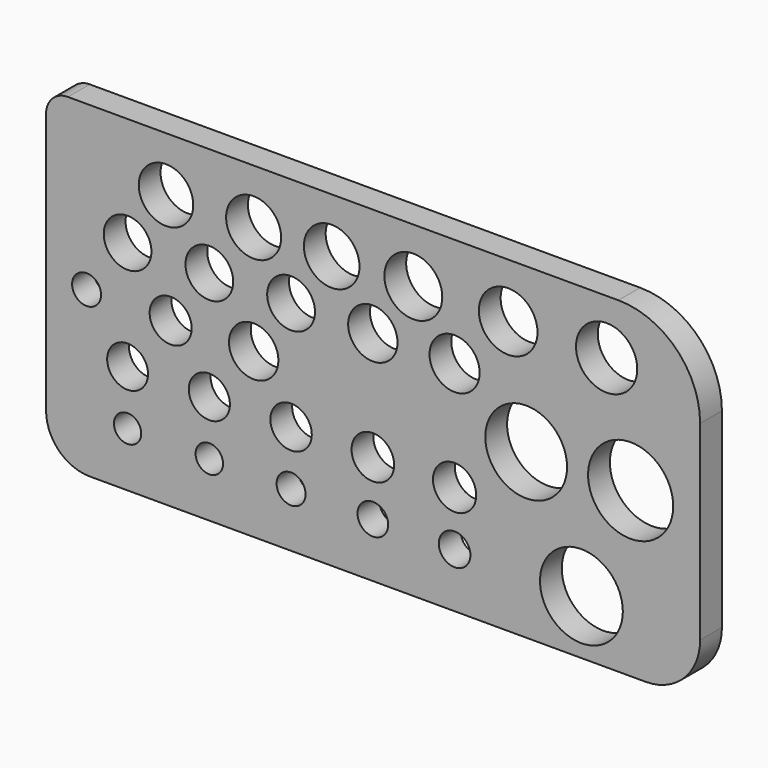
from build123d import *

# Parameters (mm, degrees)
F0_W     = 152.4
F0_H     = 76.2
F0_R     = 3.175
F0_R_2   = 3.2004
F0_R_3   = 3.3782
F0_R_4   = 3.5687
F0_R_5   = 4.7625
F0_R_6   = 4.7879
F0_R_7   = 4.826
F0_R_8   = 4.9657
F0_R_9   = 3.683
F0_R_10  = 9.652
F0_R_11  = 5.0419
F0_R_12  = 5.55625
F0_R_13  = 5.5626
F0_R_14  = 5.56895
F0_R_15  = 5.7531
F0_R_16  = 6.35
F0_R_17  = 6.4135
F0_R_18  = 6.477
F0_R_19  = 9.525
F0_R_20  = 5.842
F0_R_21  = 9.9187
F0_R_22  = 6.7437
F0_R_23  = 6.8326
F0_R_24  = 7.1374
F1_DEPTH = 6.35
F2_R     = 5.08
F3_R     = 10.16
F4_R     = 12.7
F5_R     = 19.05
F7_D     = 6.7564
F9_D     = 9.8044
F11_D    = 11.5062


with BuildPart() as f1:
    # F0 (on Front) → F1 (new body)
    with BuildSketch(Plane.XZ):
        Rectangle(F0_W, F0_H)
        with Locations((-57.2099471569, -25.400005281)):
            Circle(F0_R, mode=Mode.SUBTRACT)
        with Locations((-38.1599462152, -25.400005281)):
            Circle(F0_R_2, mode=Mode.SUBTRACT)
        with Locations((-19.1099462152, -25.400005281)):
            Circle(F0_R_3, mode=Mode.SUBTRACT)
        with Locations((-0.0599462152, -25.400005281)):
            Circle(F0_R_4, mode=Mode.SUBTRACT)
        with Locations((-57.2099471569, -12.7)):
            Circle(F0_R_5, mode=Mode.SUBTRACT)
        with Locations((-38.1599462152, -12.7)):
            Circle(F0_R_6, mode=Mode.SUBTRACT)
        with Locations((-19.1099462152, -12.7)):
            Circle(F0_R_7, mode=Mode.SUBTRACT)
        with Locations((-0.0599462152, -12.7)):
            Circle(F0_R_8, mode=Mode.SUBTRACT)
        with Locations((18.9900537848, -25.400005281)):
            Circle(F0_R_9, mode=Mode.SUBTRACT)
        with Locations((48.5375337303, -25.400005281)):
            Circle(F0_R_10, mode=Mode.SUBTRACT)
        with Locations((18.9900537848, -12.7)):
            Circle(F0_R_11, mode=Mode.SUBTRACT)
        with Locations((-57.2099462152, 12.7)):
            Circle(F0_R_12, mode=Mode.SUBTRACT)
        with Locations((-38.1599462152, 12.7)):
            Circle(F0_R_13, mode=Mode.SUBTRACT)
        with Locations((-19.1099462152, 12.7)):
            Circle(F0_R_14, mode=Mode.SUBTRACT)
        with Locations((-0.0599462152, 12.7)):
            Circle(F0_R_15, mode=Mode.SUBTRACT)
        with Locations((-48.25777933, 25.4)):
            Circle(F0_R_16, mode=Mode.SUBTRACT)
        with Locations((-27.8356466442, 25.4)):
            Circle(F0_R_17, mode=Mode.SUBTRACT)
        with Locations((-9.6515566111, 25.4)):
            Circle(F0_R_18, mode=Mode.SUBTRACT)
        with Locations((35.668797791, 0)):
            Circle(F0_R_19, mode=Mode.SUBTRACT)
        with Locations((18.9900537848, 12.7)):
            Circle(F0_R_20, mode=Mode.SUBTRACT)
        with Locations((60.0075013936, 0)):
            Circle(F0_R_21, mode=Mode.SUBTRACT)
        with Locations((9.3718003482, 25.4)):
            Circle(F0_R_22, mode=Mode.SUBTRACT)
        with Locations((31.4724631608, 25.4)):
            Circle(F0_R_23, mode=Mode.SUBTRACT)
        with Locations((54.412394762, 25.4)):
            Circle(F0_R_24, mode=Mode.SUBTRACT)
    extrude(amount=F1_DEPTH)

    # F2
    f2_edges = [f1.edges().sort_by_distance(p)[0] for p in [
        (-76.2, -3.175, 38.1),
    ]]
    fillet(f2_edges, radius=F2_R)

    # F3
    f3_edges = [f1.edges().sort_by_distance(p)[0] for p in [
        (-76.2, -3.175, -38.1),
    ]]
    fillet(f3_edges, radius=F3_R)

    # F4
    f4_edges = [f1.edges().sort_by_distance(p)[0] for p in [
        (76.2, -3.175, -38.1),
    ]]
    fillet(f4_edges, radius=F4_R)

    # F5
    f5_edges = [f1.edges().sort_by_distance(p)[0] for p in [
        (76.2, -3.175, 38.1),
    ]]
    fillet(f5_edges, radius=F5_R)

    # F7 (through all)
    with Locations(Plane.XZ.offset(6.35)):
        with Locations((-66.7602941394, 0)):
            Hole(F7_D / 2)

    # F9 (through all)
    with Locations(Plane.XZ.offset(6.35)):
        with Locations((-47.1701584756, 0)):
            Hole(F9_D / 2)

    # F11 (through all)
    with Locations(Plane.XZ.offset(6.35)):
        with Locations((-27.8289690614, 0)):
            Hole(F11_D / 2)


solid = f1.part
